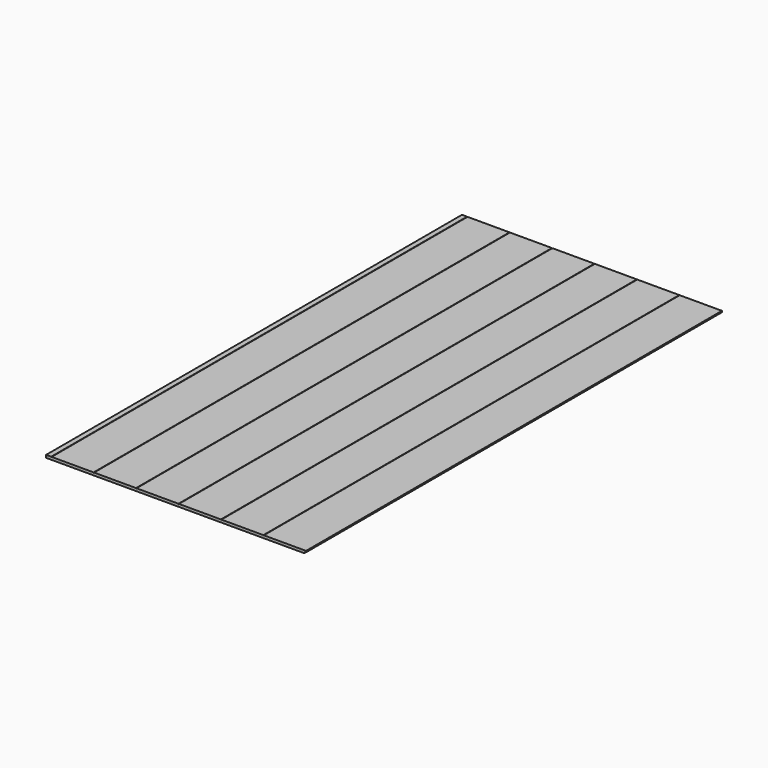
from build123d import *

# Parameters (mm, degrees)
F0_W     = 1219.2
F0_H     = 2435.225
F1_DEPTH = 4.7625
F2_W     = 6.35
F2_H     = 4.7625
F3_DEPTH = 2435.226
F4_W     = 1.5875
F4_H     = 1.5875
F5_DEPTH = 2435.226
F6_W     = 285.75
F6_H     = 9.525
F7_DEPTH = 2435.226
F8_W     = 568.325
F8_H     = 9.525
F9_DEPTH = 933.451


with BuildPart() as f1:
    # F0 (on Top) → F1 (new body, symmetric)
    with BuildSketch(Plane.XY):
        with Locations((0, 693.83302)):
            Rectangle(F0_W, F0_H)
    extrude(amount=F1_DEPTH, both=True)

    # F2 (on face) → F3 (cut, through all)
    with BuildSketch(Plane.XZ.offset(523.77948)):
        with Locations((606.425, -2.38125)):
            Rectangle(F2_W, F2_H)
        with Locations((-606.425, 2.38125)):
            Rectangle(F2_W, F2_H)
    extrude(amount=-F3_DEPTH, mode=Mode.SUBTRACT)

    # F4 (on face) → F5 (cut, through all)
    with BuildSketch(Plane.XZ.offset(523.77948)):
        with Locations((-457.2, 3.96875)):
            Rectangle(F4_W, F4_H)
        with Locations((-304.8, 3.96875)):
            Rectangle(F4_W, F4_H)
        with Locations((-152.4, 3.96875)):
            Rectangle(F4_W, F4_H)
        with Locations((0, 3.96875)):
            Rectangle(F4_W, F4_H)
        with Locations((152.4, 3.96875)):
            Rectangle(F4_W, F4_H)
        with Locations((304.8, 3.96875)):
            Rectangle(F4_W, F4_H)
        with Locations((457.2, 3.96875)):
            Rectangle(F4_W, F4_H)
    extrude(amount=-F5_DEPTH, mode=Mode.SUBTRACT)

    # F6 (on face) → F7 (cut, through all)
    with BuildSketch(Plane.XZ.offset(523.77948)):
        with Locations((-466.725, 0)):
            Rectangle(F6_W, F6_H)
    extrude(amount=-F7_DEPTH, mode=Mode.SUBTRACT)

    # F8 (on face) → F9 (cut, through all)
    with BuildSketch(Plane(origin=(-323.85, 0, 0), x_dir=(0, -1, 0), z_dir=(-1, 0, 0))):
        with Locations((-1627.28302, 0)):
            Rectangle(F8_W, F8_H)
    extrude(amount=-F9_DEPTH, mode=Mode.SUBTRACT)


solid = f1.part
